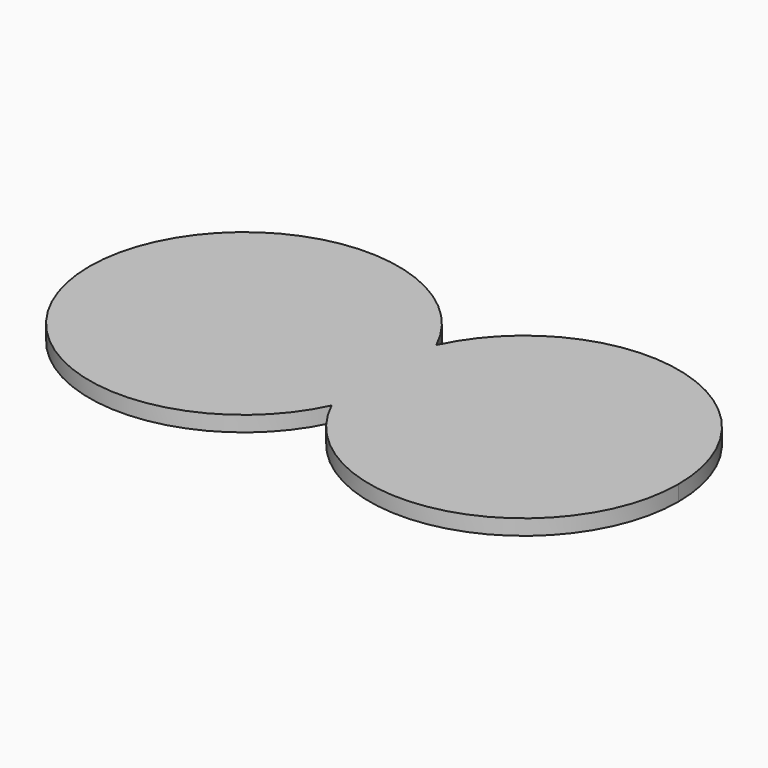
from build123d import *

# Parameters (mm, degrees)
F1_DEPTH = 1.5


with BuildPart() as f1:
    # F0 (on Top) → F1 (new body)
    with BuildSketch(Plane.XY):
        with BuildLine():
            ThreePointArc((0, -39.269483), (-1.408395, -32.923754), (0, -26.578026))
            ThreePointArc((0, -26.578026), (-28.591605, -32.923754), (0, -39.269483))
        make_face()
        with BuildLine():
            ThreePointArc((0, -39.269483), (1.052064, -36.173825), (1.408395, -32.923754))
            ThreePointArc((1.408395, -32.923754), (1.052064, -29.673683), (0, -26.578026))
            ThreePointArc((0, -26.578026), (-1.408395, -32.923754), (0, -39.269483))
        make_face()
        with BuildLine():
            ThreePointArc((0, -26.578026), (1.052064, -29.673683), (1.408395, -32.923754))
            ThreePointArc((1.408395, -32.923754), (1.052064, -36.173825), (0, -39.269483))
            ThreePointArc((0, -39.269483), (16.841676, -47.567423), (28.591605, -32.923754))
            ThreePointArc((28.591605, -32.923754), (16.841676, -18.280085), (0, -26.578026))
        make_face()
    extrude(amount=F1_DEPTH)


solid = f1.part
